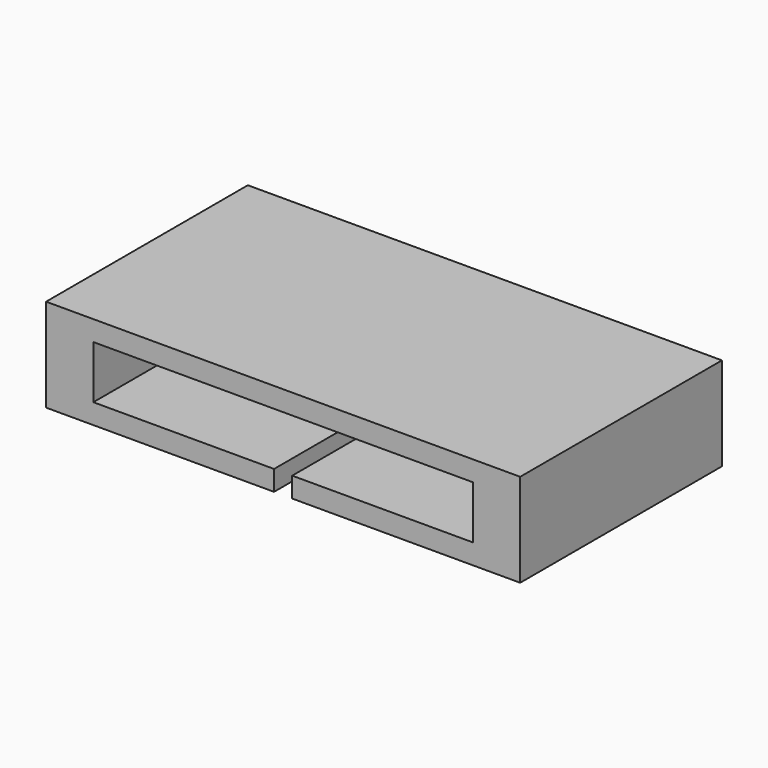
from build123d import *

# Parameters (mm, degrees)
F0_W      = 94
F0_H      = 18.5
F0_W_2    = 75.25
F0_H_2    = 10.5
F2_DEPTH  = 50
F1_W      = 75.25
F1_H      = 10.5
F3_DEPTH  = 20
F4_W      = 11
F4_H      = 7.5
F4_R      = 1.75
F5_DEPTH  = 11
F6_DEPTH  = 27.1777510643
F8_DEPTH  = 8.9369788766
F4_R_2    = 1.8
F9_DEPTH  = 25
F4_R_3    = 3.55
F10_DEPTH = 2.8


with BuildPart() as f2:
    # F0 (on Front) → F2 (new body)
    with BuildSketch(Plane.XZ):
        with Locations((-1.8079760883, 22.0405235887)):
            Rectangle(F0_W, F0_H)
        with Locations((-1.8079760883, 22.0405235887)):
            Rectangle(F0_W_2, F0_H_2, mode=Mode.SUBTRACT)
    extrude(amount=F2_DEPTH)

    # F1 (on face) → F3 (join)
    with BuildSketch(Plane.XZ):
        with Locations((-1.8079760883, 22.0405235887)):
            Rectangle(F1_W, F1_H)
    extrude(amount=F3_DEPTH)

    # F4 (on face) → F5 (cut)
    with BuildSketch(Plane.XZ.offset(20)):
        with Locations((-1.8079760883, 22.0405235887)):
            Rectangle(F4_W, F4_H)
        with Locations((-1.8079760883, 22.0405235887)):
            Circle(F4_R, mode=Mode.SUBTRACT)
    extrude(amount=-F5_DEPTH, mode=Mode.SUBTRACT)

    # F6 (cut): a face of the model
    f6_faces = [f2.faces().sort_by_distance(p)[0] for p in [
        (-1.8079760883, -20, 22.0405235887),
    ]]
    extrude(f6_faces, amount=-F6_DEPTH, mode=Mode.SUBTRACT)

    # F7 (on face) → F8 (cut)
    with BuildSketch(Plane(origin=(0, 0, 12.7905235887), x_dir=(1, 0, 0), z_dir=(0, 0, -1))):
        Polygon((-3.6079760883, 50), (-3.6079760883, 25), (-3.6079760883, 0), (-0.0079760883, 0), (-0.0079760883, 25), (-0.0079760883, 50), (-1.8079760883, 50), align=None)
    extrude(amount=-F8_DEPTH, mode=Mode.SUBTRACT)

    # F4 (on face) → F9 (cut)
    with BuildSketch(Plane.XZ.offset(20)):
        with Locations((-29.3346382678, 22.0405235887)):
            Circle(F4_R_2)
        with Locations((28.2589178532, 22.0405235887)):
            Circle(F4_R_2)
    extrude(amount=-F9_DEPTH, mode=Mode.SUBTRACT)

    # F4 (on face) → F10 (cut)
    with BuildSketch(Plane.XZ.offset(20)):
        with Locations((28.2589178532, 22.0405235887)):
            Circle(F4_R_3)
        with Locations((28.2589178532, 22.0405235887)):
            Circle(F4_R_2, mode=Mode.SUBTRACT)
        with Locations((-29.3346382678, 22.0405235887)):
            Circle(F4_R_3)
        with Locations((-29.3346382678, 22.0405235887)):
            Circle(F4_R_2, mode=Mode.SUBTRACT)
    extrude(amount=-F10_DEPTH, mode=Mode.SUBTRACT)


solid = f2.part
